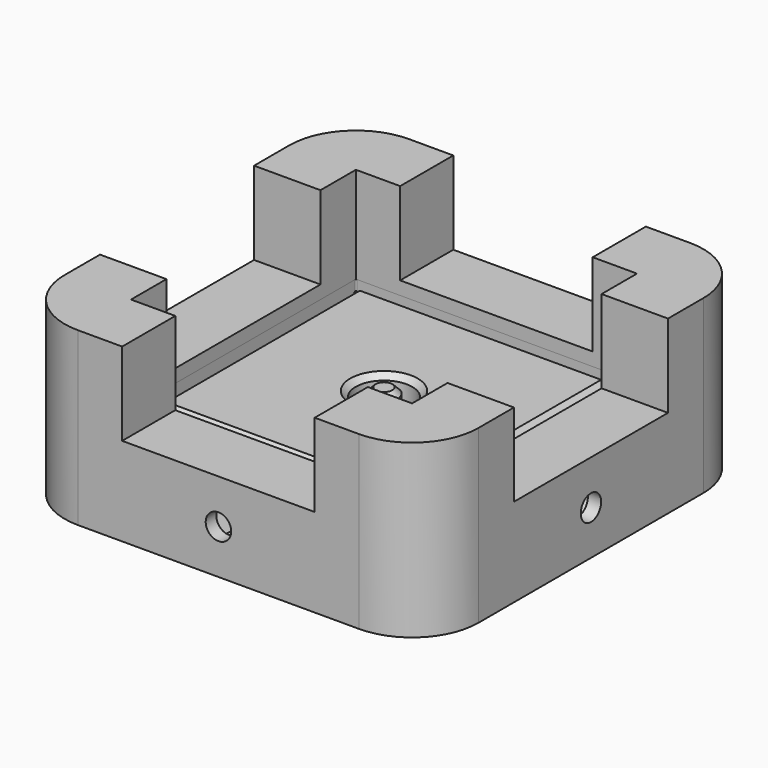
from build123d import *

# Parameters (mm, degrees)
SKETCH_W           = 50.8
SKETCH_H           = 50.8
PAD_DEPTH          = 16
SKETCH001_R        = 2.3
POCKET_DEPTH       = 225.973709
POCKET001_DEPTH    = 9.6
SKETCH003_R        = 5
POCKET002_DEPTH    = 6.2
PAD002_DEPTH       = 15
POLARPATTERN_COUNT = 4
SKETCH004_R        = 4.9
PAD001_DEPTH       = 5.2
SKETCH005_R        = 2.2
POCKET003_DEPTH    = 1.2
PAD003_DEPTH       = 12.4
POCKET004_DEPTH    = 10
CHAMFER_SIZE       = 0.8
SKETCH010_R        = 10
SKETCH012_R        = 2.5
POCKET005_DEPTH    = 2.401
FILLET_R           = 1.5
SKETCH013_R        = 8
SKETCH014_R        = 16
SKETCH015_R        = 2.5
PAD004_DEPTH       = 5
CHAMFER001_SIZE    = 1
PAD005_DEPTH       = 14.4
POCKET007_DEPTH    = 12
CHAMFER002_SIZE    = 0.8
SKETCH019_R        = 5.1
POCKET008_DEPTH    = 14.401
CHAMFER004_SIZE    = 2
CHAMFER005_SIZE    = 1
SKETCH022_R        = 20
SKETCH022_R_2      = 5.05
PAD006_DEPTH       = 10
CHAMFER003_SIZE    = 1


with BuildPart() as legcuttoolframe:
    # Sketch → Pad (new body)
    with BuildSketch(Plane.XY):
        with BuildLine():
            Line((-25.4, 37.4), (25.4, 37.4))
            ThreePointArc((37.4, 25.4), (33.885281, 33.885281), (25.4, 37.4))
            Line((37.4, 25.4), (37.4, -25.4))
            ThreePointArc((25.4, -37.4), (33.885281, -33.885281), (37.4, -25.4))
            Line((25.4, -37.4), (-25.4, -37.4))
            ThreePointArc((-37.4, -25.4), (-33.885281, -33.885281), (-25.4, -37.4))
            Line((-37.4, -25.4), (-37.4, 25.4))
            ThreePointArc((-25.4, 37.4), (-33.885281, 33.885281), (-37.4, 25.4))
        make_face()
        Rectangle(SKETCH_W, SKETCH_H, mode=Mode.SUBTRACT)
    extrude(amount=PAD_DEPTH)

    # Sketch001 → Pocket (cut, through all)
    with BuildSketch(Plane.YZ.offset(25.4)):
        with Locations((0, 8)):
            Circle(SKETCH001_R)
    pocket = extrude(amount=POCKET_DEPTH, mode=Mode.SUBTRACT)

    # Sketch002 → Pocket001 (cut)
    with BuildSketch(Plane.YZ.offset(25.4)):
        Polygon((4.1, 8), (2.05, 11.550704), (-2.05, 11.550704), (-4.1, 8), (-2.05, 4.449296), (2.05, 4.449296), align=None)
    pocket001 = extrude(amount=POCKET001_DEPTH, mode=Mode.SUBTRACT)

    # Sketch003 → Pocket002 (cut)
    with BuildSketch(Plane.YZ.offset(25.4)):
        with Locations((0, 8)):
            Circle(SKETCH003_R)
    pocket002 = extrude(amount=POCKET002_DEPTH, mode=Mode.SUBTRACT)

    # Sketch006 → Pad002 (join)
    with BuildSketch(Plane.XY.offset(16)):
        with BuildLine():
            Line((-17.4, 37.4), (-17.4, 25.4))
            Line((-17.4, 25.4), (-25.4, 25.4))
            Line((-25.4, 25.4), (-25.4, 17.4))
            Line((-25.4, 17.4), (-37.4, 17.4))
            Line((-37.4, 17.4), (-37.4, 25.4))
            ThreePointArc((-25.4, 37.4), (-33.885281, 33.885281), (-37.4, 25.4))
            Line((-17.4, 37.4), (-25.4, 37.4))
        make_face()
    pad002 = extrude(amount=PAD002_DEPTH)

    # PolarPattern: Pocket, Pocket001, Pocket002, Pad002 ×4 about axis
    polarpattern_axis = Axis((0, 0, 0), (0, 0, 1))
    for i in range(1, POLARPATTERN_COUNT):
        add(pocket.rotate(polarpattern_axis, i * 360 / POLARPATTERN_COUNT), mode=Mode.SUBTRACT)
        add(pocket001.rotate(polarpattern_axis, i * 360 / POLARPATTERN_COUNT), mode=Mode.SUBTRACT)
        add(pocket002.rotate(polarpattern_axis, i * 360 / POLARPATTERN_COUNT), mode=Mode.SUBTRACT)
        add(pad002.rotate(polarpattern_axis, i * 360 / POLARPATTERN_COUNT))


with BuildPart() as legcuttoolbutton:
    # Sketch004 → Pad001 (new body)
    with BuildSketch(Plane.XY):
        Circle(SKETCH004_R)
    extrude(amount=PAD001_DEPTH)

    # Sketch005 → Pocket003 (cut)
    with BuildSketch(Plane.XY.offset(5.2)):
        Circle(SKETCH005_R)
    extrude(amount=-POCKET003_DEPTH, mode=Mode.SUBTRACT)


with BuildPart() as legend:
    # Sketch008 → Pad003 (new body)
    with BuildSketch(Plane.XY):
        with BuildLine():
            ThreePointArc((-25.4, 27), (-26.531371, 26.531371), (-27, 25.4))
            Line((-27, -25.4), (-27, 25.4))
            ThreePointArc((-27, -25.4), (-26.531371, -26.531371), (-25.4, -27))
            Line((25.4, -27), (-25.4, -27))
            ThreePointArc((25.4, -27), (26.531371, -26.531371), (27, -25.4))
            Line((27, 25.4), (27, -25.4))
            ThreePointArc((27, 25.4), (26.531371, 26.531371), (25.4, 27))
            Line((-25.4, 27), (25.4, 27))
        make_face()
    extrude(amount=PAD003_DEPTH)

    # Sketch009 → Pocket004 (cut)
    with BuildSketch(Plane.XY.offset(12.4)):
        with BuildLine():
            ThreePointArc((-24.8, 25.4), (-25.224264, 25.224264), (-25.4, 24.8))
            Line((-25.4, -24.8), (-25.4, 24.8))
            ThreePointArc((-25.4, -24.8), (-25.224264, -25.224264), (-24.8, -25.4))
            Line((24.8, -25.4), (-24.8, -25.4))
            ThreePointArc((24.8, -25.4), (25.224264, -25.224264), (25.4, -24.8))
            Line((25.4, 24.8), (25.4, -24.8))
            ThreePointArc((25.4, 24.8), (25.224264, 25.224264), (24.8, 25.4))
            Line((-24.8, 25.4), (24.8, 25.4))
        make_face()
        with BuildLine():
            ThreePointArc((-21.6, 22.6), (-22.307107, 22.307107), (-22.6, 21.6))
            Line((-22.6, -21.6), (-22.6, 21.6))
            ThreePointArc((-22.6, -21.6), (-22.307107, -22.307107), (-21.6, -22.6))
            Line((21.6, -22.6), (-21.6, -22.6))
            ThreePointArc((21.6, -22.6), (22.307107, -22.307107), (22.6, -21.6))
            Line((22.6, 21.6), (22.6, -21.6))
            ThreePointArc((22.6, 21.6), (22.307107, 22.307107), (21.6, 22.6))
            Line((-21.6, 22.6), (21.6, 22.6))
        make_face(mode=Mode.SUBTRACT)
    extrude(amount=-POCKET004_DEPTH, mode=Mode.SUBTRACT)

    # Chamfer
    chamfer_edges = [legend.edges().sort_by_distance(p)[0] for p in [
        (0, 22.6, 12.4),
        (0, 25.4, 12.4),
    ]]
    chamfer(chamfer_edges, length=CHAMFER_SIZE)

    # Sketch010 → SubtractiveLoft section 0
    with BuildSketch(Plane.XY.offset(2.4)):
        Circle(SKETCH010_R)
    # Sketch011 → SubtractiveLoft section 1
    with BuildSketch(Plane.XY.offset(12.4)):
        with BuildLine():
            ThreePointArc((-11, 21), (-18.071068, 18.071068), (-21, 11))
            Line((-21, -11), (-21, 11))
            ThreePointArc((-21, -11), (-18.071068, -18.071068), (-11, -21))
            Line((11, -21), (-11, -21))
            ThreePointArc((11, -21), (18.071068, -18.071068), (21, -11))
            Line((21, 11), (21, -11))
            ThreePointArc((21, 11), (18.071068, 18.071068), (11, 21))
            Line((-11, 21), (11, 21))
        make_face()
    loft(mode=Mode.SUBTRACT)

    # Sketch012 → Pocket005 (cut, through all)
    with BuildSketch(Plane.XY.offset(2.4)):
        Circle(SKETCH012_R)
    extrude(amount=-POCKET005_DEPTH, mode=Mode.SUBTRACT)

    # Fillet
    fillet_edges = [legend.edges().sort_by_distance(p)[0] for p in [
        (0, 10, 2.4),
        (0, 21, 12.4),
    ]]
    fillet(fillet_edges, radius=FILLET_R)


with BuildPart() as legendbumper:
    # Sketch013 → AdditiveLoft section 0
    with BuildSketch(Plane.XY):
        Circle(SKETCH013_R)
    # Sketch014 → AdditiveLoft section 1
    with BuildSketch(Plane.XY.offset(10)):
        Circle(SKETCH014_R)
    loft()

    # Sketch015 → Pad004 (new body)
    with BuildSketch(Plane.XY.offset(10)):
        Circle(SKETCH015_R)
    extrude(amount=PAD004_DEPTH)

    # Chamfer001
    chamfer001_edges = [legendbumper.edges().sort_by_distance(p)[0] for p in [
        (-2.5, 0, 15),
    ]]
    chamfer(chamfer001_edges, length=CHAMFER001_SIZE)


with BuildPart() as legendroller:
    # Sketch021 → Pad005 (new body)
    with BuildSketch(Plane.XY):
        with BuildLine():
            ThreePointArc((-25.4, 27), (-26.531371, 26.531371), (-27, 25.4))
            Line((-27, -25.4), (-27, 25.4))
            ThreePointArc((-27, -25.4), (-26.531371, -26.531371), (-25.4, -27))
            Line((25.4, -27), (-25.4, -27))
            ThreePointArc((25.4, -27), (26.531371, -26.531371), (27, -25.4))
            Line((27, 25.4), (27, -25.4))
            ThreePointArc((27, 25.4), (26.531371, 26.531371), (25.4, 27))
            Line((-25.4, 27), (25.4, 27))
        make_face()
    extrude(amount=PAD005_DEPTH)

    # Sketch017 → Pocket007 (cut)
    with BuildSketch(Plane.XY.offset(14.4)):
        with BuildLine():
            ThreePointArc((-25.2, 25.4), (-25.341421, 25.341421), (-25.4, 25.2))
            Line((-25.4, -25.2), (-25.4, 25.2))
            ThreePointArc((-25.4, -25.2), (-25.341421, -25.341421), (-25.2, -25.4))
            Line((25.2, -25.4), (-25.2, -25.4))
            ThreePointArc((25.2, -25.4), (25.341421, -25.341421), (25.4, -25.2))
            Line((25.4, 25.2), (25.4, -25.2))
            ThreePointArc((25.4, 25.2), (25.341421, 25.341421), (25.2, 25.4))
            Line((-25.2, 25.4), (25.2, 25.4))
        make_face()
        with BuildLine():
            ThreePointArc((-21.6, 22.6), (-22.307107, 22.307107), (-22.6, 21.6))
            Line((-22.6, -21.6), (-22.6, 21.6))
            ThreePointArc((-22.6, -21.6), (-22.307107, -22.307107), (-21.6, -22.6))
            Line((21.6, -22.6), (-21.6, -22.6))
            ThreePointArc((21.6, -22.6), (22.307107, -22.307107), (22.6, -21.6))
            Line((22.6, 21.6), (22.6, -21.6))
            ThreePointArc((22.6, 21.6), (22.307107, 22.307107), (21.6, 22.6))
            Line((-21.6, 22.6), (21.6, 22.6))
        make_face(mode=Mode.SUBTRACT)
    extrude(amount=-POCKET007_DEPTH, mode=Mode.SUBTRACT)

    # Chamfer002
    chamfer002_edges = [legendroller.edges().sort_by_distance(p)[0] for p in [
        (0, 22.6, 14.4),
        (0, 25.4, 14.4),
        (0, 27, 0),
    ]]
    chamfer(chamfer002_edges, length=CHAMFER002_SIZE)

    # Sketch019 → Pocket008 (cut, through all)
    with BuildSketch(Plane.XY.offset(14.4)):
        Circle(SKETCH019_R)
    extrude(amount=-POCKET008_DEPTH, mode=Mode.SUBTRACT)

    # Chamfer004
    chamfer004_edges = [legendroller.edges().sort_by_distance(p)[0] for p in [
        (-5.1, 0, 0),
    ]]
    chamfer(chamfer004_edges, length=CHAMFER004_SIZE)

    # Chamfer005
    chamfer005_edges = [legendroller.edges().sort_by_distance(p)[0] for p in [
        (-5.1, 0, 14.4),
    ]]
    chamfer(chamfer005_edges, length=CHAMFER005_SIZE)


with BuildPart() as test:
    # Sketch022 → Pad006 (new body)
    with BuildSketch(Plane.XY):
        Circle(SKETCH022_R)
        Circle(SKETCH022_R_2, mode=Mode.SUBTRACT)
    extrude(amount=PAD006_DEPTH)

    # Chamfer003
    chamfer003_edges = [test.edges().sort_by_distance(p)[0] for p in [
        (-20, 0, 10),
        (-5.05, 0, 10),
        (-20, 0, 0),
        (-5.05, 0, 0),
    ]]
    chamfer(chamfer003_edges, length=CHAMFER003_SIZE)


solid = Compound([legcuttoolframe.part, legcuttoolbutton.part, legend.part, legendbumper.part, legendroller.part, test.part])
